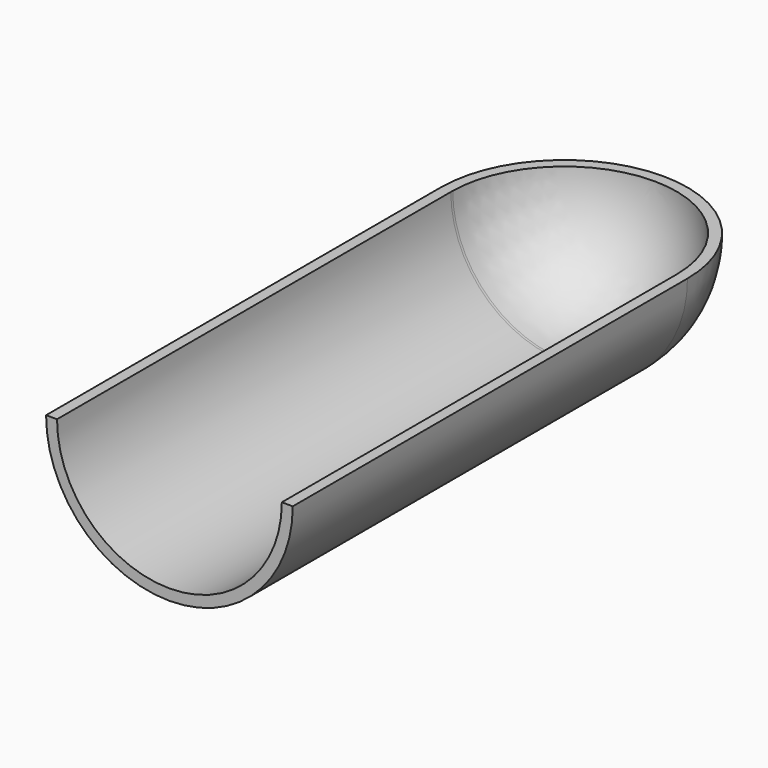
from build123d import *

# Parameters (mm, degrees)
F1_ANGLE = 180


with BuildPart() as f1:
    # F0 (on Top) → F1 (revolve)
    with BuildSketch(Plane.XY):
        with BuildLine():
            Line((-50.8, -101.6), (-46.288617, -101.6))
            Line((-46.288617, -101.6), (-46.288617, 101.09959))
            ThreePointArc((-46.288617, 101.09959), (-46.291322, 101.6), (-46.288617, 102.10041))
            ThreePointArc((-46.288617, 102.10041), (-32.555505, 134.509353), (0, 147.891322))
            Line((0, 147.891322), (0, 152.4))
            ThreePointArc((0, 152.4), (-35.921024, 137.521024), (-50.8, 101.6))
            Line((-50.8, 101.6), (-50.8, -101.6))
        make_face()
    revolve(axis=Axis((0, 0, 0), (0, -1, 0)), revolution_arc=F1_ANGLE)


solid = f1.part
